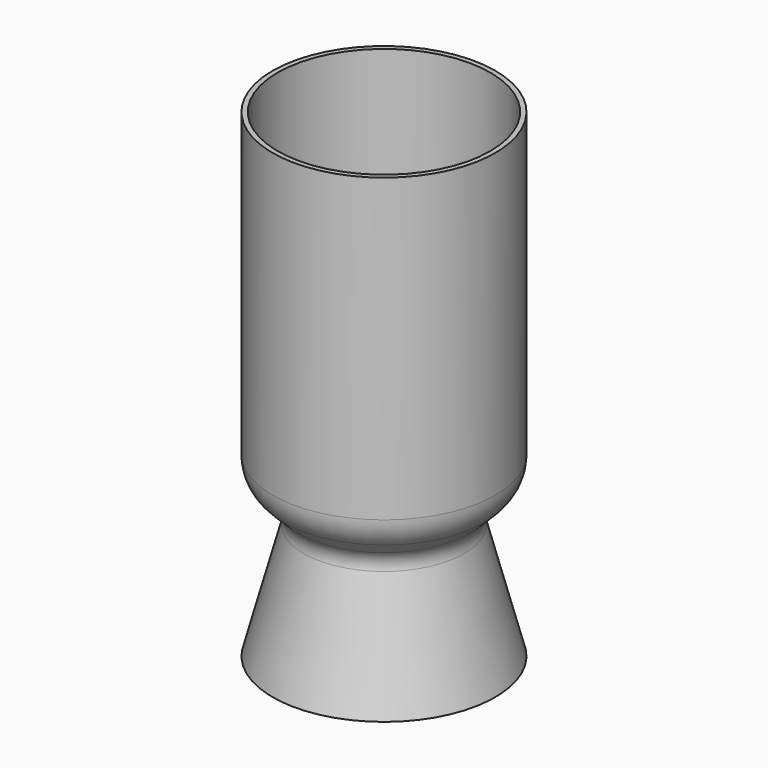
from build123d import *


with BuildPart() as f1:
    # F0 (on Front) → F1 (revolve)
    with BuildSketch(Plane.XZ):
        with BuildLine():
            Line((-33.9725, 114.3), (-35.56, 114.3))
            Line((-35.56, 114.3), (-35.56, 18.050768))
            ThreePointArc((-35.56, 18.050768), (-34.59327, 13.190689), (-31.840256, 9.070512))
            Line((-31.840256, 9.070512), (-27.259872, 4.490128))
            ThreePointArc((-27.259872, 4.490128), (-25.616371, 1.643501), (-25.616371, -1.643501))
            Line((-25.616371, -1.643501), (-35.56, -38.75363))
            Line((-35.56, -38.75363), (-34.026593, -39.164505))
            Line((-34.026593, -39.164505), (-24.082964, -2.054376))
            ThreePointArc((-24.082964, -2.054376), (-24.082964, 2.054376), (-26.13734, 5.61266))
            Line((-26.13734, 5.61266), (-30.717724, 10.193044))
            ThreePointArc((-30.717724, 10.193044), (-33.126611, 13.798199), (-33.9725, 18.050768))
            Line((-33.9725, 18.050768), (-33.9725, 114.3))
        make_face()
    revolve(axis=Axis((0, 0, 37.567748), (0, 0, -1)))


solid = f1.part
